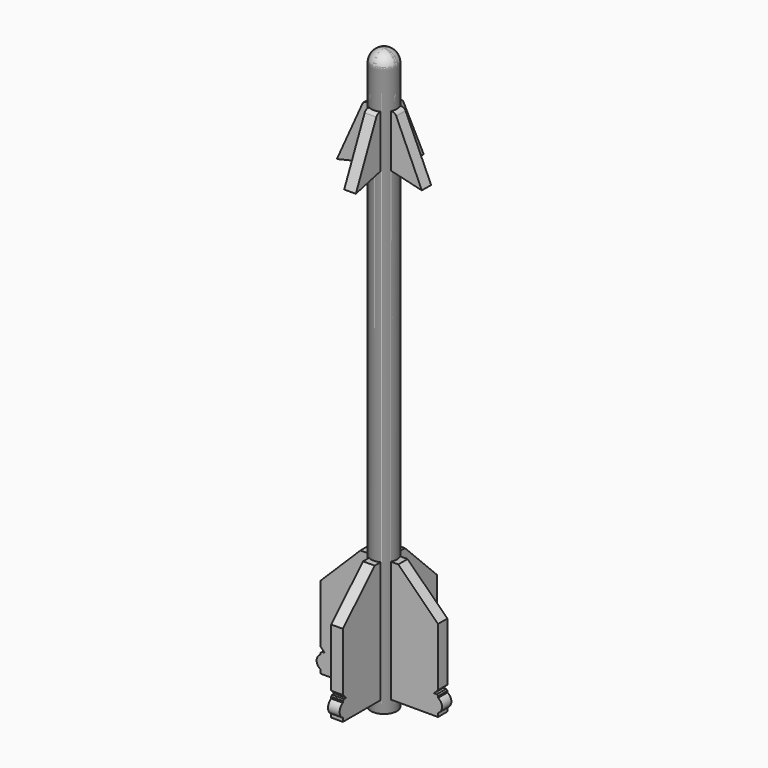
from build123d import *

# Parameters (mm, degrees)
F3_DEPTH = 0.2
F4_COUNT = 4


with BuildPart() as f1:
    # F0 (on Front) → F1 (revolve)
    with BuildSketch(Plane.XZ):
        with BuildLine():
            Line((0, 19.8958333333), (0, 0))
            Line((0, 0), (0.4409722222, 0))
            Line((0.4409722222, 0), (0.4409722222, 19.4548611111))
            ThreePointArc((0.4409722222, 19.4548611111), (0.3118144486, 19.7666755598), (0, 19.8958333333))
        make_face()
    revolve(axis=Axis((0, 0, 9.9479166667), (0, 0, 1)))

    # F2 (on Front) → F3 (join, symmetric)
    with BuildSketch(Plane.XZ):
        with BuildLine():
            Line((2.0138888889, 3.2291666667), (0.6493055556, 4.5833333333))
            Line((0.6493055556, 4.5833333333), (-0.6493055556, 4.5833333333))
            Line((-0.6493055556, 4.5833333333), (-2.0138888889, 3.2291666667))
            Line((-2.0138888889, 3.2291666667), (-2.0138888889, 1.2291666667))
            Line((-2.0138888889, 1.2291666667), (-1.875, 1.0902777778))
            Line((-1.875, 1.0902777778), (-1.9722222222, 1.0902777778))
            Line((-1.9722222222, 1.0902777778), (-2.0138888889, 1.0486111111))
            Line((-2.0138888889, 1.0486111111), (-2.0138888889, 0.9930555556))
            ThreePointArc((-2.0138888889, 0.9930555556), (-2.1527777778, 0.7673611111), (-2.0138888889, 0.5416666667))
            Line((-2.0138888889, 0.5416666667), (-2.0138888889, 0.4166666667))
            Line((-2.0138888889, 0.4166666667), (2.0138888889, 0.4166666667))
            Line((2.0138888889, 0.4166666667), (2.0138888889, 0.5416666667))
            ThreePointArc((2.0138888889, 0.5416666667), (2.1527777778, 0.7673611111), (2.0138888889, 0.9930555556))
            Line((2.0138888889, 0.9930555556), (2.0138888889, 1.0486111111))
            Line((2.0138888889, 1.0486111111), (1.9722222222, 1.0902777778))
            Line((1.9722222222, 1.0902777778), (1.875, 1.0902777778))
            Line((1.875, 1.0902777778), (2.0138888889, 1.2291666667))
            Line((2.0138888889, 1.2291666667), (2.0138888889, 3.2291666667))
        make_face()
        with BuildLine():
            Line((-0.5798611111, 18.1045180179), (-1.4583333333, 16.1458333333))
            Line((-1.4583333333, 16.1458333333), (0, 16.4942406143))
            Line((0, 16.4942406143), (1.4583333333, 16.1458333333))
            Line((1.4583333333, 16.1458333333), (0.5798611111, 18.1045180179))
            ThreePointArc((0.5798611111, 18.1045180179), (0.5237020319, 18.1700001119), (0.4409722222, 18.1944444444))
            Line((0.4409722222, 18.1944444444), (-0.4409722222, 18.1944444444))
            ThreePointArc((-0.4409722222, 18.1944444444), (-0.5237020319, 18.1700001119), (-0.5798611111, 18.1045180179))
        make_face()
    extrude(amount=F3_DEPTH, both=True)


with BuildPart() as f4_1:
    # F4: instance of F1
    add(f1.part.rotate(Axis((0, 0, 0), (0, 0, 1)), 1 * 360 / F4_COUNT))


with BuildPart() as f4_2:
    # F4: instance of F1
    add(f1.part.rotate(Axis((0, 0, 0), (0, 0, 1)), 2 * 360 / F4_COUNT))


with BuildPart() as f4_3:
    # F4: instance of F1
    add(f1.part.rotate(Axis((0, 0, 0), (0, 0, 1)), 3 * 360 / F4_COUNT))


solid = Compound([f1.part, f4_1.part, f4_2.part, f4_3.part])
